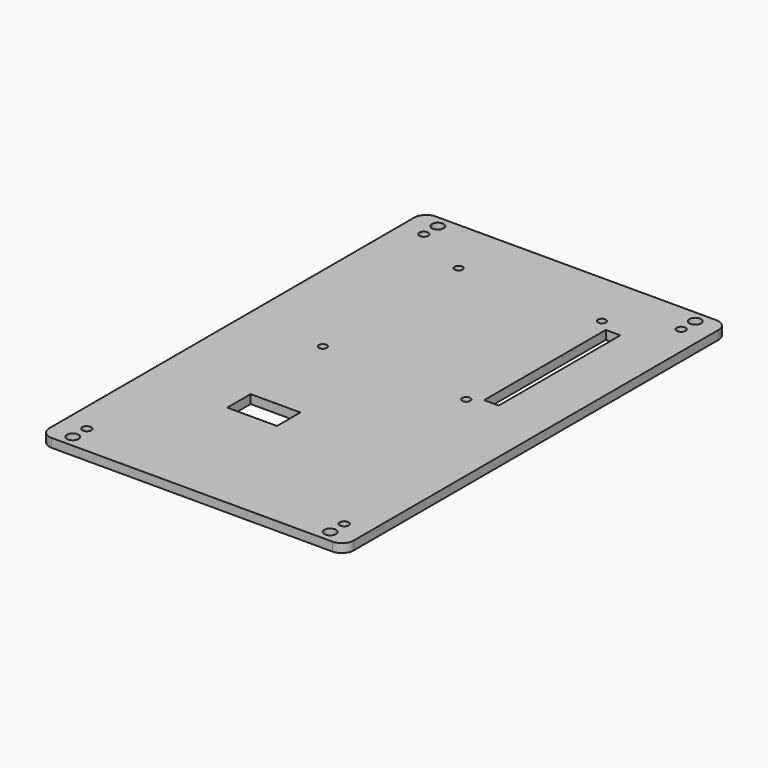
from build123d import *

# Parameters (mm, degrees)
F0_R     = 1.999911
F0_R_2   = 1.499796
F0_W     = 17
F0_H     = 10.000005
F0_R_3   = 1.3716
F0_W_2   = 4.99999
F0_H_2   = 51.988198
F1_DEPTH = 3


with BuildPart() as f1:
    # F0 (on Top) → F1 (new body)
    with BuildSketch(Plane.XY):
        with BuildLine():
            Line((-48, -82), (48, -82))
            ThreePointArc((48, -82), (50.828427, -80.828427), (52, -78))
            Line((52, -78), (52, 78))
            ThreePointArc((52, 78), (50.828427, 80.828427), (48, 82))
            Line((48, 82), (-48, 82))
            ThreePointArc((-48, 82), (-50.828427, 80.828427), (-52, 78))
            Line((-52, 78), (-52, -78))
            ThreePointArc((-52, -78), (-50.828427, -80.828427), (-48, -82))
        make_face()
        with Locations((-44, -78.000002)):
            Circle(F0_R, mode=Mode.SUBTRACT)
        with Locations((-44, -72)):
            Circle(F0_R_2, mode=Mode.SUBTRACT)
        with Locations((-13.859001, -34.045246)):
            Rectangle(F0_W, F0_H, mode=Mode.SUBTRACT)
        with Locations((44, -78.000002)):
            Circle(F0_R, mode=Mode.SUBTRACT)
        with Locations((44, -72)):
            Circle(F0_R_2, mode=Mode.SUBTRACT)
        with Locations((-24.500001, 4.500001)):
            Circle(F0_R_3, mode=Mode.SUBTRACT)
        with Locations((-44, 72)):
            Circle(F0_R_2, mode=Mode.SUBTRACT)
        with Locations((-44, 78.000002)):
            Circle(F0_R, mode=Mode.SUBTRACT)
        with Locations((-24.500001, 62.488201)):
            Circle(F0_R_3, mode=Mode.SUBTRACT)
        with Locations((24.496599, 4.500001)):
            Circle(F0_R_3, mode=Mode.SUBTRACT)
        with Locations((30.996594, 33.152436)):
            Rectangle(F0_W_2, F0_H_2, mode=Mode.SUBTRACT)
        with Locations((24.496599, 62.488201)):
            Circle(F0_R_3, mode=Mode.SUBTRACT)
        with Locations((44, 72)):
            Circle(F0_R_2, mode=Mode.SUBTRACT)
        with Locations((44, 78.000002)):
            Circle(F0_R, mode=Mode.SUBTRACT)
    extrude(amount=F1_DEPTH)


solid = f1.part
